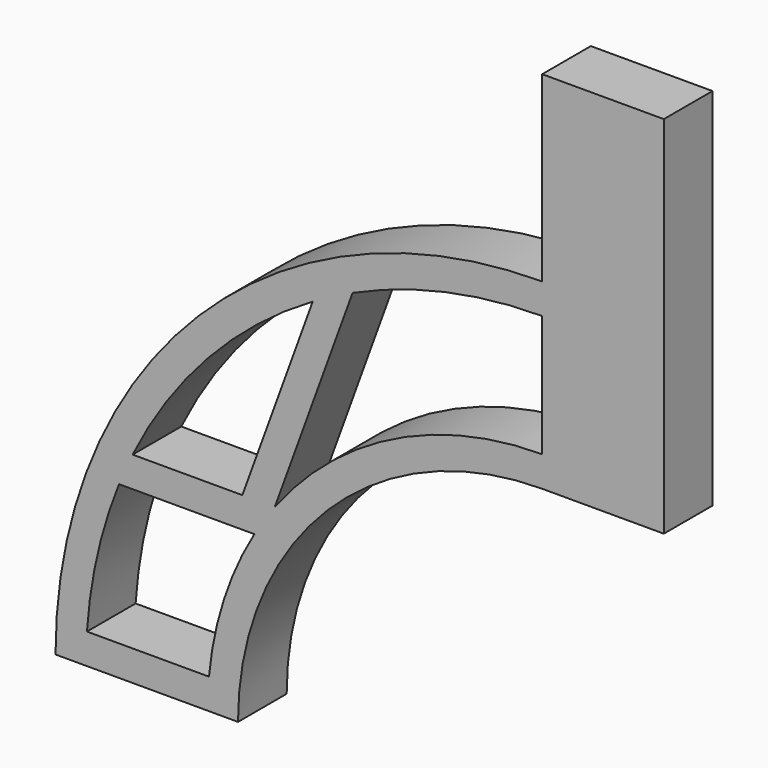
from build123d import *

# Parameters (mm, degrees)
F2_DEPTH = 254


with BuildPart() as f2:
    # F0 (on Front) + F1 (on face) → F2 (new body)
    with BuildSketch(Plane.XZ):
        Polygon((0, 0), (-508, 0), (-508, -762), (-508, -889), (-508, -1397), (-508, -1524), (0, -1524), align=None)
        with BuildLine():
            Line((-508, -889), (-508, -762))
            ThreePointArc((-508, -762), (-1944.840979, -1357.159021), (-2540, -2794))
            Line((-2540, -2794), (-2413, -2794))
            ThreePointArc((-2413, -2794), (-2411.940193, -2730.464653), (-2408.761952, -2667))
            ThreePointArc((-2408.761952, -2667), (-2364.975455, -2368.950405), (-2274.75168, -2081.53))
            ThreePointArc((-2274.75168, -2081.53), (-2247.566657, -2017.512495), (-2218.062899, -1954.53))
            ThreePointArc((-2218.062899, -1954.53), (-1901.750824, -1495.35315), (-1466.03683, -1147.430709))
            ThreePointArc((-1466.03683, -1147.430709), (-1383.833137, -1102.272682), (-1299.506438, -1061.215374))
            ThreePointArc((-1299.506438, -1061.215374), (-913.012523, -932.551678), (-508, -889))
        make_face()
        with BuildLine():
            Line((-508, -1524), (-508, -1397))
            ThreePointArc((-508, -1397), (-1132.047037, -1544.130289), (-1624.646372, -1954.53))
            ThreePointArc((-1624.646372, -1954.53), (-1668.893008, -2016.866533), (-1709.663638, -2081.53))
            ThreePointArc((-1709.663638, -2081.53), (-1837.078279, -2363.697864), (-1899.215296, -2667))
            ThreePointArc((-1899.215296, -2667), (-1903.553075, -2730.434162), (-1905, -2794))
            Line((-1905, -2794), (-1778, -2794))
            ThreePointArc((-1778, -2794), (-1406.025612, -1895.974388), (-508, -1524))
        make_face()
        with BuildLine():
            ThreePointArc((-1709.663638, -2081.53), (-1668.893008, -2016.866533), (-1624.646372, -1954.53))
            Line((-1624.646372, -1954.53), (-1759.796949, -1954.53))
            Line((-1759.796949, -1954.53), (-2218.062899, -1954.53))
            ThreePointArc((-2218.062899, -1954.53), (-2247.566657, -2017.512495), (-2274.75168, -2081.53))
            Line((-2274.75168, -2081.53), (-1709.663638, -2081.53))
        make_face()
        with BuildLine():
            ThreePointArc((-2408.761952, -2667), (-2411.940193, -2730.464653), (-2413, -2794))
            Line((-2413, -2794), (-1905, -2794))
            ThreePointArc((-1905, -2794), (-1903.553075, -2730.434162), (-1899.215296, -2667))
            Line((-1899.215296, -2667), (-2408.761952, -2667))
        make_face()
    with BuildSketch(Plane.XZ):
        with BuildLine():
            Line((-1759.796949, -1954.53), (-1624.646372, -1954.53))
            Line((-1624.646372, -1954.53), (-1299.506438, -1061.215374))
            ThreePointArc((-1299.506438, -1061.215374), (-1383.833137, -1102.272682), (-1466.03683, -1147.430709))
            Line((-1466.03683, -1147.430709), (-1759.796949, -1954.53))
        make_face()
    extrude(amount=F2_DEPTH)


solid = f2.part
